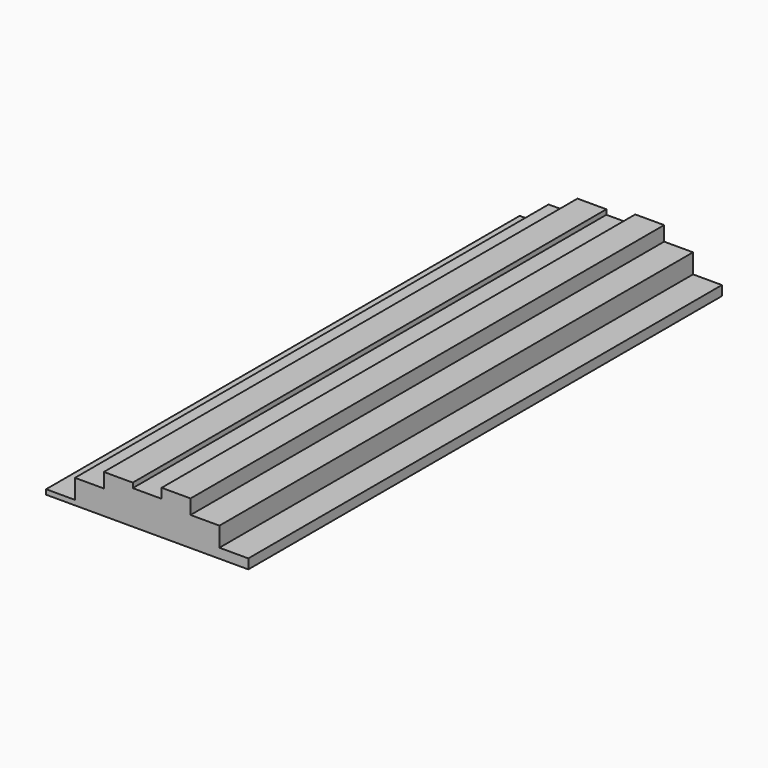
from build123d import *

# Parameters (mm, degrees)
F1_DEPTH = 1219.2


with BuildPart() as f1:
    # F0 (on Front) → F1 (new body)
    with BuildSketch(Plane.XZ):
        Polygon((0, 10), (0, 0), (416.5, 0), (416.5, 10), (416.5, 20), (357, 20), (357, 60), (297.5, 60), (297.5, 90), (238, 90), (238, 70), (178.5, 70), (178.5, 80), (119, 80), (119, 50), (59.5, 50), (59.5, 10), align=None)
    extrude(amount=F1_DEPTH)


solid = f1.part
